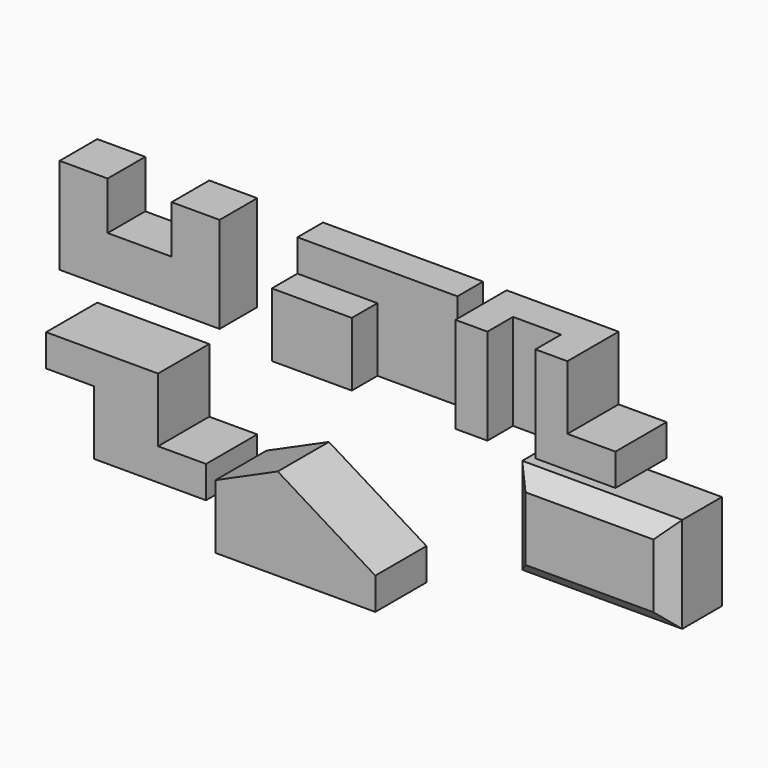
from build123d import *

# Parameters (mm, degrees)
F1_DEPTH  = 74.676
F4_DEPTH  = 101.6
F5_W      = 76.2
F5_H      = 50.8
F6_DEPTH  = 152.4
F7_DEPTH  = 152.4
F8_W      = 127
F8_H      = 50.8
F9_DEPTH  = 50.8
F10_W     = 254
F10_H     = 101.6
F11_DEPTH = 152.4
F12_W     = 76.2
F12_H     = 101.6
F13_DEPTH = 101.6
F14_W     = 76.2
F14_H     = 101.6
F15_DEPTH = 101.6
F18_DEPTH = 101.6
F20_DEPTH = 101.6
F21_W     = 254
F21_H     = 152.4
F22_DEPTH = 27.94
F23_SIZE  = 25.4
F24_DEPTH = 76.2


with BuildPart() as f1:
    # F0 (on Front) → F1 (new body)
    with BuildSketch(Plane.XZ):
        Polygon((0, 152.4), (0, 0), (254, 0), (254, 152.4), (177.8, 152.4), (177.8, 76.2), (76.2, 76.2), (76.2, 152.4), align=None)
    extrude(amount=F1_DEPTH)


with BuildPart() as f4:
    # F3 (on Front) → F4 (new body)
    with BuildSketch(Plane.XZ):
        Polygon((649.95204, 152.4), (649.95204, 0), (903.95204, 0), (903.95204, 50.8), (827.75204, 50.8), (827.75204, 152.4), align=None)
    extrude(amount=F4_DEPTH)

    # F5 (on face) → F6 (cut)
    with BuildSketch(Plane.XY.offset(152.4)):
        with Locations((738.85204, -76.2)):
            Rectangle(F5_W, F5_H)
    extrude(amount=-F6_DEPTH, mode=Mode.SUBTRACT)


with BuildPart() as f7:
    # F2 (on Top) → F7 (new body)
    with BuildSketch(Plane.XY):
        Polygon((358.455741, 0), (358.455741, -101.6), (485.455741, -101.6), (485.455741, -50.8), (612.455741, -50.8), (612.455741, 0), align=None)
    extrude(amount=F7_DEPTH)

    # F8 (on face) → F9 (cut)
    with BuildSketch(Plane.XY.offset(152.4)):
        with Locations((421.955741, -76.2)):
            Rectangle(F8_W, F8_H)
    extrude(amount=-F9_DEPTH, mode=Mode.SUBTRACT)


with BuildPart() as f11:
    # F10 (on Top) → F11 (new body)
    with BuildSketch(Plane.XY):
        with Locations((127, -254)):
            Rectangle(F10_W, F10_H)
    extrude(amount=F11_DEPTH)

    # F12 (on face) → F13 (cut)
    with BuildSketch(Plane.XZ.offset(304.8)):
        with Locations((38.1, 50.8)):
            Rectangle(F12_W, F12_H)
    extrude(amount=-F13_DEPTH, mode=Mode.SUBTRACT)

    # F14 (on face) → F15 (cut)
    with BuildSketch(Plane.XZ.offset(304.8)):
        with Locations((215.9, 101.6)):
            Rectangle(F14_W, F14_H)
    extrude(amount=-F15_DEPTH, mode=Mode.SUBTRACT)


with BuildPart() as f18:
    # F17 (on Front) → F18 (new body)
    with BuildSketch(Plane.XZ):
        Polygon((177.8, -76.2), (0, -76.2), (0, -127), (76.2, -127), (76.2, -228.6), (254, -228.6), (254, -177.8), (177.8, -177.8), align=None)
    extrude(amount=F18_DEPTH)


with BuildPart() as f20:
    # F19 (on face) → F20 (new body)
    with BuildSketch(Plane.XZ.offset(101.6)):
        Polygon((349.973459, -127.947941), (349.973459, -229.547941), (603.973459, -229.547941), (603.973459, -178.747941), (449.09542, -83.549562), align=None)
    extrude(amount=F20_DEPTH)


with BuildPart() as f22:
    # F21 (on Front) → F22 (new body)
    with BuildSketch(Plane.XZ):
        with Locations((803.832799, -152.338558)):
            Rectangle(F21_W, F21_H)
    extrude(amount=F22_DEPTH)

    # F23
    f23_edges = [f22.edges().sort_by_distance(p)[0] for p in [
        (676.832799, -27.94, -152.338558),
        (803.832799, -27.94, -228.538558),
        (930.832799, -27.94, -152.338558),
        (803.832799, -27.94, -76.138558),
    ]]
    chamfer(f23_edges, length=F23_SIZE)

    # F21 (on Front) → F24 (join)
    with BuildSketch(Plane.XZ):
        with Locations((803.832799, -152.338558)):
            Rectangle(F21_W, F21_H)
    extrude(amount=-F24_DEPTH)


solid = Compound([f1.part, f4.part, f7.part, f18.part, f20.part, f22.part])
